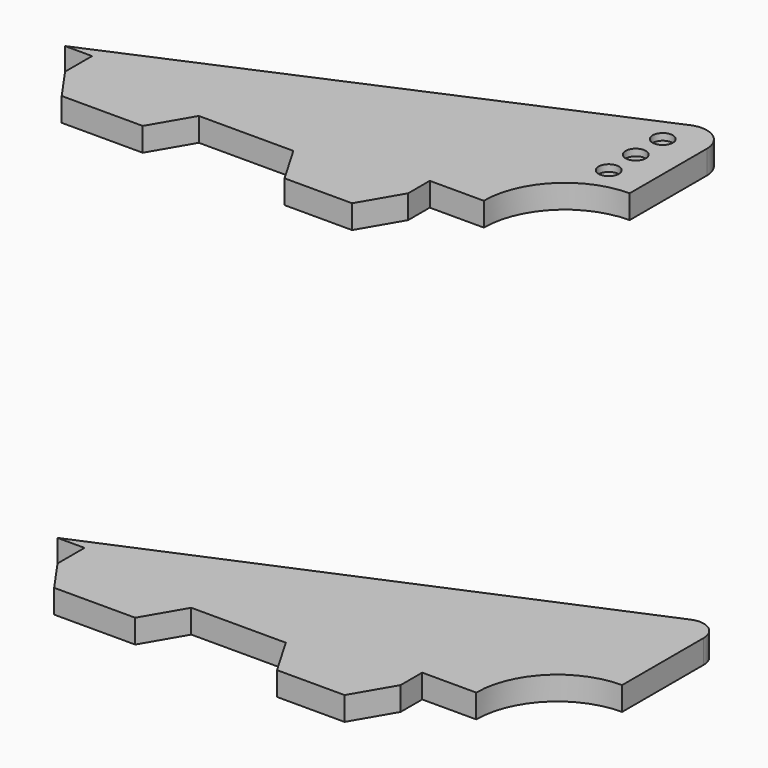
from build123d import *

# Parameters (mm, degrees)
F1_R     = 0.75
F2_DEPTH = 1.75
F0_R     = 0.75
F3_DEPTH = 1.75
F4_DEPTH = 1.25
F5_DEPTH = 1.25


with BuildPart() as f2:
    # F1 (on Top) → F2 (new body)
    with BuildSketch(Plane.XY):
        with BuildLine():
            Line((12.99089, 14.884238), (-21.991227, 0))
            Line((-21.991227, 0), (-19.991227, 0))
            Line((-19.991227, 0), (-19.991227, -2.5))
            Line((-19.991227, -2.5), (-18.241227, -5))
            Line((-18.241227, -5), (-12.241227, -5))
            Line((-12.241227, -5), (-10.491227, -2))
            Line((-10.491227, -2), (-3.491227, -2))
            Line((-3.491227, -2), (-1.741227, -5))
            Line((-1.741227, -5), (3.258773, -5))
            Line((3.258773, -5), (5.008773, -2))
            Line((5.008773, -2), (5.008773, 0))
            Line((5.008773, 0), (9.008773, 0))
            ThreePointArc((9.008773, 0), (10.766133, 4.242641), (15.008773, 6))
            Line((15.008773, 6), (15.008773, 13.549867))
            ThreePointArc((15.008773, 13.549867), (14.358507, 14.759453), (12.99089, 14.884238))
        make_face()
        with Locations((12.258773, 7.5)):
            Circle(F1_R, mode=Mode.SUBTRACT)
        with Locations((12.258773, 10)):
            Circle(F1_R, mode=Mode.SUBTRACT)
        with Locations((12.258773, 12.5)):
            Circle(F1_R, mode=Mode.SUBTRACT)
    extrude(amount=-F2_DEPTH)

    # F1 (on Top) → F4 (join)
    with BuildSketch(Plane.XY):
        with Locations((12.258773, 12.5)):
            Circle(F1_R)
        with Locations((12.258773, 10)):
            Circle(F1_R)
        with Locations((12.258773, 7.5)):
            Circle(F1_R)
    extrude(amount=-F4_DEPTH)


with BuildPart() as f3:
    # F0 (on Top) → F3 (new body)
    with BuildSketch(Plane.XY):
        with BuildLine():
            Line((-23.604643, 60.577677), (-58.015765, 45.729411))
            Line((-58.015765, 45.729411), (-56.015765, 45.729411))
            Line((-56.015765, 45.729411), (-56.015765, 43.229411))
            Line((-56.015765, 43.229411), (-54.265765, 40.729411))
            Line((-54.265765, 40.729411), (-48.265765, 40.729411))
            Line((-48.265765, 40.729411), (-46.515765, 43.729411))
            Line((-46.515765, 43.729411), (-39.515765, 43.729411))
            Line((-39.515765, 43.729411), (-37.765765, 40.729411))
            Line((-37.765765, 40.729411), (-32.765765, 40.729411))
            Line((-32.765765, 40.729411), (-31.015765, 43.729411))
            Line((-31.015765, 43.729411), (-31.015765, 45.729411))
            Line((-31.015765, 45.729411), (-27.015765, 45.729411))
            ThreePointArc((-27.015765, 45.729411), (-25.258406, 49.972051), (-21.015765, 51.729411))
            Line((-21.015765, 51.729411), (-21.015765, 58.875162))
            ThreePointArc((-21.015765, 58.875162), (-21.851178, 60.424424), (-23.604643, 60.577677))
        make_face()
        with Locations((-23.765765, 53.229411)):
            Circle(F0_R, mode=Mode.SUBTRACT)
        with Locations((-23.765765, 55.729411)):
            Circle(F0_R, mode=Mode.SUBTRACT)
        with Locations((-23.765765, 58.229411)):
            Circle(F0_R, mode=Mode.SUBTRACT)
    extrude(amount=F3_DEPTH)

    # F0 (on Top) → F5 (join)
    with BuildSketch(Plane.XY):
        with Locations((-23.765765, 58.229411)):
            Circle(F0_R)
        with Locations((-23.765765, 55.729411)):
            Circle(F0_R)
        with Locations((-23.765765, 53.229411)):
            Circle(F0_R)
    extrude(amount=F5_DEPTH)


solid = Compound([f2.part, f3.part])
